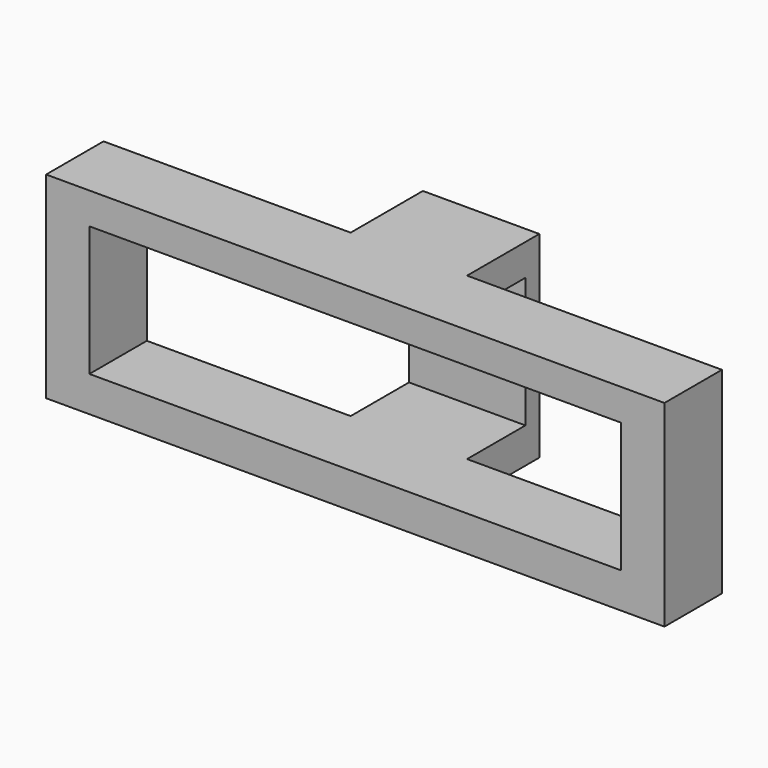
from build123d import *

# Parameters (mm, degrees)
F0_W     = 106.8142578006
F0_H     = 34.0172816068
F0_W_2   = 91.846652329
F0_H_2   = 22.4514044821
F1_DEPTH = 25
F2_W     = 106.8142578006
F2_H     = 34.0172816068
F3_DEPTH = 3
F4_W     = 42.6840842701
F4_H     = 15.5962775201
F4_W_2   = 44.0205549821
F5_DEPTH = 42.7


with BuildPart() as f1:
    # F0 (on Front) → F1 (new body)
    with BuildSketch(Plane.XZ):
        with Locations((4.592332989, 0.3401720896)):
            Rectangle(F0_W, F0_H)
        with Locations((4.592332989, 0.6803460419)):
            Rectangle(F0_W_2, F0_H_2, mode=Mode.SUBTRACT)
    extrude(amount=F1_DEPTH)

    # F2 (on face) → F3 (join)
    with BuildSketch(Plane(origin=(0, 0, 0), x_dir=(-1, 0, 0), z_dir=(0, 1, 0))):
        with Locations((-4.592332989, 0.3401720896)):
            Rectangle(F2_W, F2_H)
    extrude(amount=F3_DEPTH)

    # F4 (on face) → F5 (cut)
    with BuildSketch(Plane.XY.offset(17.348812893)):
        with Locations((-27.4727537762, -4.79813876)):
            Rectangle(F4_W, F4_H)
        with Locations((35.9891843982, -4.79813876)):
            Rectangle(F4_W_2, F4_H)
    extrude(amount=-F5_DEPTH, mode=Mode.SUBTRACT)


solid = f1.part
